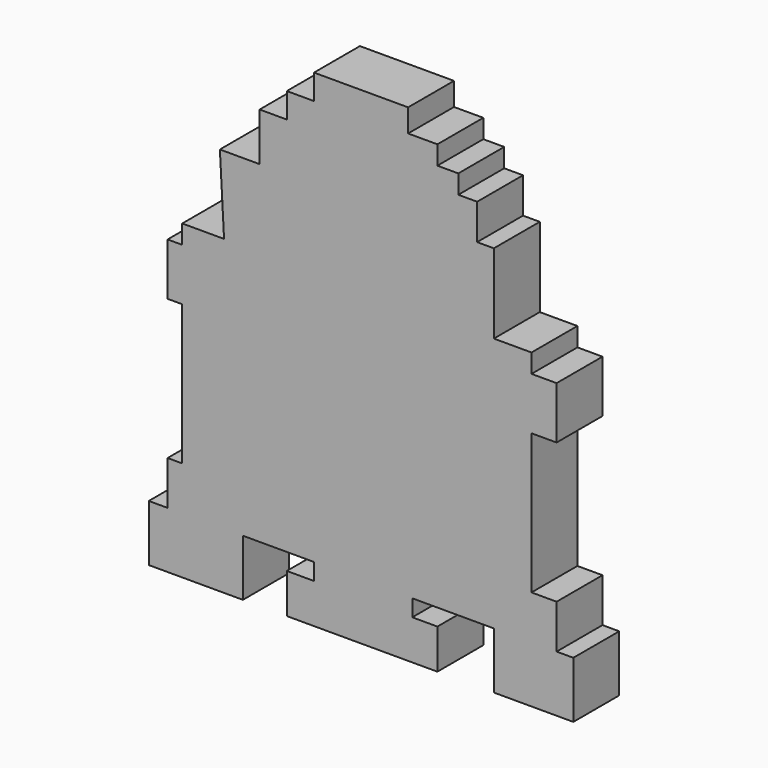
from build123d import *

# Parameters (mm, degrees)
F1_DEPTH = 7.366


with BuildPart() as f1:
    # F0 (on Front) → F1 (new body)
    with BuildSketch(Plane.XZ):
        Polygon((4.967066, 29.668139), (-3.087636, 29.668139), (-7.114984, 29.668139), (-7.114984, 26.446259), (-10.605352, 26.446259), (-10.605352, 23.22438), (-14.095721, 23.22438), (-14.095721, 17.049111), (-19.197032, 17.049111), (-18.66005, 7.114983), (-24.029849, 7.114983), (-24.029849, 4.698574), (-25.909279, 4.698574), (-25.909279, -2.013674), (-24.029849, -2.013674), (-24.029849, -20.002501), (-25.909279, -20.002501), (-25.909279, -25.640789), (-28.325688, -25.640789), (-28.325688, -27.788708), (-28.325688, -32.890018), (-16.24364, -32.890018), (-16.24364, -25.640789), (-7.114984, -25.640789), (-7.114984, -27.788708), (-10.605352, -27.788708), (-10.605352, -32.890018), (8.725923, -32.890018), (8.725923, -27.788708), (5.504044, -27.788708), (5.504044, -25.640789), (15.975151, -25.640789), (15.975151, -32.890018), (26.177768, -32.890018), (26.177768, -25.640789), (24.029847, -25.640789), (24.029847, -20.002501), (20.80797, -20.002501), (20.80797, -2.013674), (24.029847, -2.013674), (24.029847, 4.698574), (20.80797, 4.698574), (20.80797, 7.114983), (15.975151, 7.114983), (15.975151, 17.317601), (13.827233, 17.317601), (13.827233, 21.881929), (11.410821, 21.881929), (11.410821, 24.298338), (8.725923, 24.298338), (8.725923, 26.714748), (4.967066, 26.714748), align=None)
    extrude(amount=F1_DEPTH)


solid = f1.part
